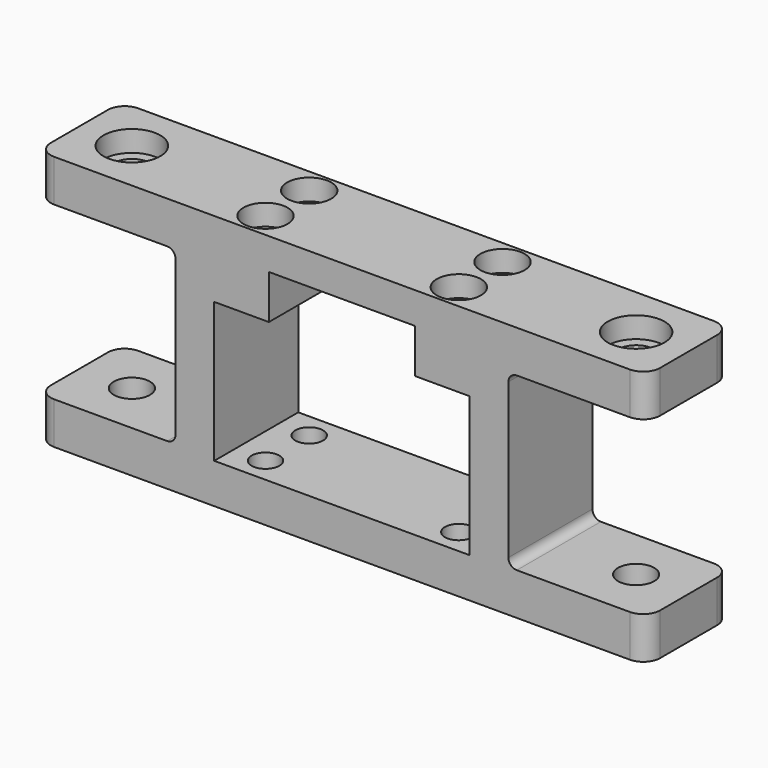
from build123d import *

# Parameters (mm, degrees)
PAD_DEPTH       = 25
SKETCH001_R     = 4.3
POCKET_DEPTH    = 60.801
SKETCH002_R     = 3.3
POCKET001_DEPTH = 60.801
FILLET_R        = 4
FILLET001_R     = 2
SKETCH003_R     = 6.75
POCKET002_DEPTH = 5
SKETCH004_R     = 6.75
POCKET003_DEPTH = 5
SKETCH005_R     = 5.25
POCKET004_DEPTH = 5
POCKET005_DEPTH = 4


with BuildPart() as part:
    # Sketch → Pad (new body)
    with BuildSketch(Plane.XZ):
        Polygon((-72.5, -30.4), (72.5, -30.4), (72.5, -20.4), (39.6, -20.4), (39.6, 20.4), (72.5, 20.4), (72.5, 30.4), (-72.5, 30.4), (-72.5, 20.4), (-39.6, 20.4), (-39.6, -20.4), (-72.5, -20.4), align=None)
        Polygon((-30.4, -20.9), (-30.4, 12.4), (-17.4, 12.4), (-17.4, 22.9), (17.4, 22.9), (17.4, 12.4), (30.4, 12.4), (30.4, -20.9), align=None, mode=Mode.SUBTRACT)
    extrude(amount=PAD_DEPTH)

    # Sketch001 (on Face7 of Pad) → Pocket (cut, through all)
    with BuildSketch(Plane(origin=(0, 0, 30.4), x_dir=(-1, 0, 0), z_dir=(0, 0, 1))):
        with Locations((-60, 12.5)):
            Circle(SKETCH001_R)
        with Locations((60, 12.5)):
            Circle(SKETCH001_R)
    extrude(amount=-POCKET_DEPTH, mode=Mode.SUBTRACT)

    # Sketch002 (on Face13 of Pocket) → Pocket001 (cut, through all)
    with BuildSketch(Plane(origin=(0, 0, 30.4), x_dir=(-1, 0, 0), z_dir=(0, 0, 1))):
        with Locations((-23, 6)):
            Circle(SKETCH002_R)
        with Locations((-23, 19)):
            Circle(SKETCH002_R)
        with Locations((23, 19)):
            Circle(SKETCH002_R)
        with Locations((23, 6)):
            Circle(SKETCH002_R)
    extrude(amount=-POCKET001_DEPTH, mode=Mode.SUBTRACT)

    # Fillet
    fillet_edges = [part.edges().sort_by_distance(p)[0] for p in [
        (-72.5, -25, 25.4),
        (-72.5, -25, -25.4),
        (72.5, -25, -25.4),
        (72.5, -25, 25.4),
        (-72.5, 0, 25.4),
        (-72.5, 0, -25.4),
        (72.5, 0, -25.4),
        (72.5, 0, 25.4),
    ]]
    fillet(fillet_edges, radius=FILLET_R)

    # Fillet001
    fillet001_edges = [part.edges().sort_by_distance(p)[0] for p in [
        (-39.6, -12.5, -20.4),
        (-39.6, -12.5, 20.4),
        (39.6, -12.5, 20.4),
        (39.6, -12.5, -20.4),
    ]]
    fillet(fillet001_edges, radius=FILLET001_R)

    # Sketch003 (on Face13 of Fillet001) → Pocket002 (cut)
    with BuildSketch(Plane(origin=(0, 0, 30.4), x_dir=(-1, 0, 0), z_dir=(0, 0, 1))):
        with Locations((-60, 12.5)):
            Circle(SKETCH003_R)
        with Locations((60, 12.5)):
            Circle(SKETCH003_R)
    extrude(amount=-POCKET002_DEPTH, mode=Mode.SUBTRACT)

    # Sketch004 (on Face13 of Pocket002) → Pocket003 (cut)
    with BuildSketch(Plane(origin=(0, 0, -30.4), x_dir=(-1, 0, 0), z_dir=(0, 0, 1))):
        with Locations((-60, 12.5)):
            Circle(SKETCH004_R)
        with Locations((60, 12.5)):
            Circle(SKETCH004_R)
    extrude(amount=POCKET003_DEPTH, mode=Mode.SUBTRACT)

    # Sketch005 (on Face13 of Pocket003) → Pocket004 (cut)
    with BuildSketch(Plane(origin=(0, 0, 30.4), x_dir=(-1, 0, 0), z_dir=(0, 0, 1))):
        with Locations((-23, 19)):
            Circle(SKETCH005_R)
        with Locations((-23, 6)):
            Circle(SKETCH005_R)
        with Locations((23, 6)):
            Circle(SKETCH005_R)
        with Locations((23, 19)):
            Circle(SKETCH005_R)
    extrude(amount=-POCKET004_DEPTH, mode=Mode.SUBTRACT)

    # Sketch006 (on Face13 of Pocket004) → Pocket005 (cut)
    with BuildSketch(Plane(origin=(0, 0, -30.4), x_dir=(-1, 0, 0), z_dir=(0, 0, 1))):
        Polygon((-20.026646, 13.85), (-17.053292, 19), (-20.026646, 24.15), (-25.973354, 24.15), (-28.946708, 19), (-25.973354, 13.85), align=None)
        Polygon((-20.026646, 0.85), (-17.053292, 6), (-20.026646, 11.15), (-25.973354, 11.15), (-28.946708, 6), (-25.973354, 0.85), align=None)
        Polygon((25.973354, 13.85), (28.946708, 19), (25.973354, 24.15), (20.026646, 24.15), (17.053292, 19), (20.026646, 13.85), align=None)
        Polygon((25.973354, 0.85), (28.946708, 6), (25.973354, 11.15), (20.026646, 11.15), (17.053292, 6), (20.026646, 0.85), align=None)
    extrude(amount=POCKET005_DEPTH, mode=Mode.SUBTRACT)


solid = part.part
